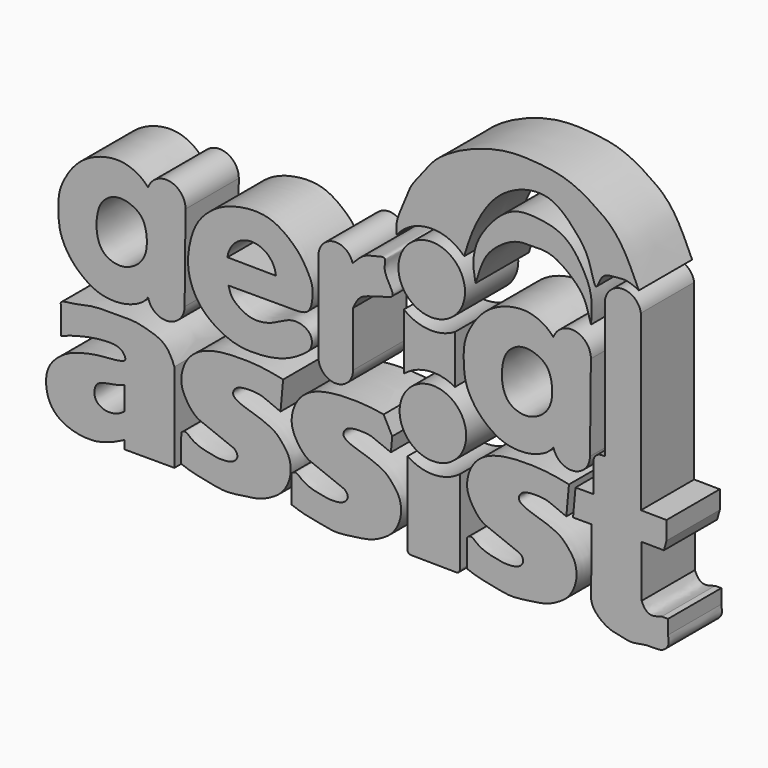
from build123d import *

# Parameters (mm, degrees)
F1_DEPTH = 12.7
F0_R     = 6.35


with BuildPart() as f1:
    # F0 (on Front) → F1 (new body)
    with BuildSketch(Plane.XZ):
        with BuildLine():
            ThreePointArc((-36.92736394, 8.3423931277), (-39.9481089356, 12.0115259021), (-44.080620392, 9.6642328426))
            add(Edge.make_bspline(
                [(-44.080620392, 9.6642328426), (-44.4570360941, 10.0444431838), (-45.2372403042, 10.8791309194), (-47.2623622422, 11.9834788219), (-49.9189243023, 12.5598556121), (-53.5611994753, 11.9278370596), (-56.9095936053, 10.1104382312), (-59.1505090436, 7.5453537904), (-60.7867923719, 4.4758820464), (-61.2491465623, 2.0381780509), (-61.1605141724, -1.4930133429), (-60.7303503841, -3.9388656179), (-59.0554222901, -7.1622771349), (-56.1881703209, -9.801242571), (-53.1742961077, -11.4339225266), (-49.2589535474, -11.7013068247), (-46.1003647072, -10.7021091695), (-44.6693750984, -9.6838841775), (-44.0614384885, -8.7981158956)],
                knots=[0, 0, 0, 0, 0.0419022688, 0.0907340553, 0.1442626227, 0.206618562, 0.2700129241, 0.330387387, 0.3902962657, 0.4421527831, 0.502592299, 0.5544488212, 0.615696099, 0.6801171088, 0.7402415995, 0.8041365663, 0.862700259, 0.9168851876, 0.9168851876, 0.9168851876, 0.9168851876], degree=3))
            ThreePointArc((-44.0614384885, -8.7981158956), (-40.2706891827, -11.5704071604), (-37.1002503927, -8.1057719654))
            Line((-37.1002503927, -8.1057719654), (-36.92736394, 8.3423931277))
        make_face()
        with BuildLine():
            add(Edge.make_bspline(
                [(-49.7851110995, 6.0772686265), (-50.227566633, 6.0325957346), (-51.2350357937, 5.8305511382), (-53.2419706289, 4.2707398528), (-53.9366496633, 1.4362169986), (-53.9402217823, -1.4001682026), (-53.0121466029, -3.9029812023), (-51.0479102627, -5.1313486484), (-48.5822756573, -5.4075825697), (-46.1393201611, -4.1744103479), (-44.7335343199, -2.4385643847), (-44.1137597823, -0.0214934704), (-44.565270215, 3.4343075668), (-45.931946219, 5.1555131326), (-48.2975774259, 6.1243344777), (-49.3363075278, 6.1225824535), (-49.7851110995, 6.0772686265)],
                knots=[0, 0, 0, 0, 0.0554375298, 0.1273232555, 0.2061504288, 0.2851026097, 0.3592180228, 0.4278992816, 0.4999645681, 0.5755823371, 0.6437938247, 0.7169920497, 0.8026407277, 0.8709749043, 0.9437670919, 1, 1, 1, 1], degree=3))
        make_face(mode=Mode.SUBTRACT)
    extrude(amount=F1_DEPTH)


with BuildPart() as f1b:
    # F0 (on Front) → F1, piece 2 (new body)
    with BuildSketch(Plane.XZ):
        with BuildLine():
            add(Edge.make_bspline(
                [(-16.0856470466, -1.8352442421), (-14.9334774509, -1.8352442421), (-13.6238848733, -1.5955220307), (-12.7837951124, -0.0030607536), (-12.5150879754, 3.2164083415), (-13.5671974966, 5.3428380717), (-14.9043483022, 7.6776598715), (-17.3179016133, 10.0827007843), (-20.721339102, 12.2338393507), (-24.8631059067, 12.4638392516), (-29.0875136154, 11.5219728836), (-32.0571469246, 9.8122128351), (-34.8393827555, 7.0479076336), (-36.1794094375, 3.1735178832), (-36.6067051291, -0.5221311261), (-36.0845589728, -3.596280434), (-34.5669468153, -6.6429886934), (-32.4911426205, -8.6742931633), (-30.0653223991, -10.2512223121), (-26.7291475251, -11.5763954031), (-22.0059629138, -11.595692939), (-17.6927903552, -10.7361001605), (-14.4477645936, -8.7434419536), (-12.7073546521, -7.2781732715), (-12.798292861, -4.4716572261), (-16.2272609533, -3.1973587615), (-18.9669034458, -4.7837206071), (-21.5795677368, -5.9331061127), (-24.4889591894, -6.08713621), (-26.7519276615, -4.87475765), (-28.2566134444, -3.6279701452), (-28.5619811878, -2.3634067836), (-28.7444703281, -1.8352442421)],
                knots=[0, 0, 0, 0, 0.0295711735, 0.0533035337, 0.0869571234, 0.1162628235, 0.1470570171, 0.1821568433, 0.2199123548, 0.2583875449, 0.2976882604, 0.3327620958, 0.3698426501, 0.4082437078, 0.4447593066, 0.4781905648, 0.5129171666, 0.5451439139, 0.5771651845, 0.6129095469, 0.6541597545, 0.6944336354, 0.7312276283, 0.7589609948, 0.7873995814, 0.820749912, 0.8541722339, 0.8864169504, 0.9182933328, 0.9484452451, 0.974619544, 1, 1, 1, 1], degree=3))
            Line((-28.7444703281, -1.8352442421), (-16.0856470466, -1.8352442421))
        make_face()
        with BuildLine():
            Line((-19.6931885237, 2.743549669), (-28.9292708039, 2.8406300116))
            ThreePointArc((-28.9292708039, 2.8406300116), (-24.2673542633, 6.9663314824), (-19.6931885237, 2.743549669))
        make_face(mode=Mode.SUBTRACT)
    extrude(amount=F1_DEPTH)


with BuildPart() as f1c:
    # F0 (on Front) → F1, piece 3 (new body)
    with BuildSketch(Plane.XZ):
        with BuildLine():
            ThreePointArc((-5.0769320968, 9.6009214018), (-8.6858583906, 12.0688876549), (-11.5803475518, 8.7921302766))
            Line((-11.5803475518, 8.7921302766), (-11.5803475518, -8.3183348179))
            ThreePointArc((-11.5803475518, -8.3183348179), (-8.2783475518, -11.6203348179), (-4.9763475518, -8.3183348179))
            Line((-4.9763475518, -8.3183348179), (-4.9763475518, 2.1206191741))
            add(Edge.make_bspline(
                [(-5.0769320968, 9.6009214018), (-4.4022189115, 10.3243042189), (-3.1196891813, 11.696892157), (-1.1065486226, 12.0657745557), (1.7037259032, 12.9335090071), (0.3984740556, 10.3152720309), (2.986254662, 7.0792250395), (2.1976517289, 6.1433340244), (0.6476692797, 5.9382942847), (-0.9447594045, 5.2632572737), (-3.8087792889, 4.7347779577), (-4.5863197662, 2.9938825294), (-4.9763475518, 2.1206191741)],
                knots=[0, 0, 0, 0, 0.1137623169, 0.2158611777, 0.3118945004, 0.4056518515, 0.5394090822, 0.6008172583, 0.6835363942, 0.7754926829, 0.8873747179, 1, 1, 1, 1], degree=3))
        make_face()
    extrude(amount=F1_DEPTH)


with BuildPart() as f1d:
    # F0 (on Front) → F1, piece 4 (new body)
    with BuildSketch(Plane.XZ):
        with Locations((10.0175207481, 11.7521565408)):
            Circle(F0_R)
    extrude(amount=F1_DEPTH)


with BuildPart() as f1e:
    # F0 (on Front) → F1, piece 5 (new body)
    with BuildSketch(Plane.XZ):
        with BuildLine():
            ThreePointArc((14.4508831856, 4.4150553593), (9.4842099687, 3.1962617388), (4.7073348611, 5.0223956166))
            Line((4.7073348611, 5.0223956166), (4.7073348611, -5.7541462049))
            ThreePointArc((4.7073348611, -5.7541462049), (9.4340594876, -3.7642383506), (14.4508831856, -4.8287283441))
            Line((14.4508831856, -4.8287283441), (14.4508831856, 4.4150553593))
        make_face()
    extrude(amount=F1_DEPTH)


with BuildPart() as f1f:
    # F0 (on Front) → F1, piece 6 (new body)
    with BuildSketch(Plane.XZ):
        with BuildLine():
            add(Edge.make_bspline(
                [(3.309202439, 17.089405056), (3.2688006741, 17.8313774693), (3.1927594953, 19.3756621783), (4.2460932671, 21.8360462867), (5.2451691814, 24.3220205662), (6.1866754905, 26.6688776027), (8.3266986948, 28.941240512), (10.2467008288, 31.987464346), (13.8199499653, 34.4044424418), (17.6207120347, 36.3128290011), (23.9943161832, 38.2752036133), (30.5327914115, 37.9793600547), (36.0518898321, 37.1726561186), (40.9825805665, 34.4055830772), (45.8934266433, 30.8896365162), (48.2298487709, 25.6695983325), (49.5194904506, 22.7882787585)],
                knots=[0, 0, 0, 0, 0.0510578879, 0.1065039926, 0.1625222756, 0.2162785872, 0.27589031, 0.3406400525, 0.4102821288, 0.4809833693, 0.5684459532, 0.6561050922, 0.736105372, 0.8159935765, 0.8984418083, 1, 1, 1, 1], degree=3))
            ThreePointArc((3.309202439, 17.089405056), (9.6213970849, 20.3154994799), (16.2044641036, 17.6859148915))
            add(Edge.make_bspline(
                [(49.5194904506, 22.7882787585), (48.7393447669, 23.1630066174), (47.2310269026, 23.8847248431), (45.0123518373, 23.4926472634), (42.2967213036, 23.4806485986), (41.2657631677, 19.1003172017), (40.2156992465, 25.1142666191), (37.9740414857, 28.2278567285), (35.4680843414, 30.9217232775), (32.5623758379, 32.9985962673), (28.5005291887, 33.1013943469), (24.2950430709, 31.3624858413), (20.8121740742, 28.2744477967), (17.7606828997, 22.8280207853), (16.7159044637, 19.3710324491), (16.2044641036, 17.6859148915)],
                knots=[0, 0, 0, 0, 0.0627894624, 0.1224786491, 0.1859389419, 0.2472111783, 0.3261672127, 0.4102265663, 0.4856038126, 0.5595770572, 0.6381130723, 0.7221891918, 0.8080308285, 0.9071115446, 1, 1, 1, 1], degree=3))
        make_face()
    extrude(amount=F1_DEPTH)


with BuildPart() as f1g:
    # F0 (on Front) → F1, piece 7 (new body)
    with BuildSketch(Plane.XZ):
        with Locations((10.244606453, -12.2983329052)):
            Circle(F0_R)
    extrude(amount=F1_DEPTH)


with BuildPart() as f1h:
    # F0 (on Front) → F1, piece 8 (new body)
    with BuildSketch(Plane.XZ):
        with BuildLine():
            ThreePointArc((15.3773452235, -19.1643906506), (10.4308865436, -20.8688087366), (5.4150428257, -19.3809222212))
            Line((5.4150428257, -19.3809222212), (5.4150428257, -35.1351684052))
            ThreePointArc((5.4150428257, -35.1351684052), (5.598676534, -35.5818153247), (6.0433687175, -35.7701333305))
            Line((6.0433687175, -35.7701333305), (14.7356711153, -35.8614980097))
            ThreePointArc((14.7356711153, -35.8614980097), (15.1889921429, -35.6778993762), (15.3773452235, -35.2265330844))
            Line((15.3773452235, -35.2265330844), (15.3773452235, -19.1643906506))
        make_face()
    extrude(amount=F1_DEPTH)


with BuildPart() as f1i:
    # F0 (on Front) → F1, piece 9 (new body)
    with BuildSketch(Plane.XZ):
        with BuildLine():
            add(Edge.make_bspline(
                [(18.385110423, 13.8738537207), (18.1694000001, 14.9192450348), (17.7194341835, 17.0999016302), (18.4726613018, 20.965155139), (20.5793321803, 24.1190842052), (22.7707221562, 26.6330853232), (25.8378867241, 28.710971895), (29.5499679347, 28.8108173826), (33.6877813152, 28.185008661), (36.4675365402, 26.4568456313), (38.4606925974, 23.7587410717), (40.7935280023, 19.4741554338), (40.531781864, 15.9225845881), (40.3966195881, 14.0885999426)],
                knots=[0, 0, 0, 0, 0.0841451382, 0.1755243689, 0.2659935197, 0.3513522929, 0.4388919887, 0.5282506782, 0.6233265086, 0.7059131481, 0.7905364915, 0.891835789, 1, 1, 1, 1], degree=3))
            add(Edge.make_bspline(
                [(40.3966195881, 14.0885999426), (40.0374523266, 15.4111670531), (39.3900027267, 17.7952806355), (37.9016973986, 19.8429348355), (35.3923788402, 22.0368989372), (32.432039693, 23.7302182888), (28.953483635, 23.6229127765), (25.5906165363, 23.6486595229), (21.2348043884, 20.5818016279), (19.5640902521, 17.7182045318), (18.7893848646, 15.1920889772), (18.385110423, 13.8738537207)],
                knots=[0, 0, 0, 0, 0.1159429389, 0.2090034851, 0.316081554, 0.4245999008, 0.532700542, 0.641135751, 0.7739223002, 0.8820229763, 1, 1, 1, 1], degree=3))
        make_face()
    extrude(amount=F1_DEPTH)


with BuildPart() as f1j:
    # F0 (on Front) → F1, piece 10 (new body)
    with BuildSketch(Plane.XZ):
        with BuildLine():
            ThreePointArc((40.3695137401, 8.3423931277), (37.3487687445, 12.0115259021), (33.2162572881, 9.6642328426))
            add(Edge.make_bspline(
                [(33.2162572881, 9.6642328426), (32.839841586, 10.0444431838), (32.0596373759, 10.8791309194), (30.034515438, 11.9834788219), (27.3779533779, 12.5598556121), (23.7356782049, 11.9278370596), (20.3872840749, 10.1104382312), (18.1463686366, 7.5453537904), (16.5100853082, 4.4758820464), (16.0477311178, 2.0381780509), (16.1363635077, -1.4930133429), (16.566527296, -3.9388656179), (18.24145539, -7.1622771349), (21.1087073592, -9.801242571), (24.1225815724, -11.4339225266), (28.0379241327, -11.7013068247), (31.1965129729, -10.7021091695), (32.6275025817, -9.6838841775), (33.2354391916, -8.7981158956)],
                knots=[0, 0, 0, 0, 0.0419022688, 0.0907340553, 0.1442626227, 0.206618562, 0.2700129241, 0.330387387, 0.3902962657, 0.4421527831, 0.502592299, 0.5544488212, 0.615696099, 0.6801171088, 0.7402415995, 0.8041365663, 0.862700259, 0.9168851876, 0.9168851876, 0.9168851876, 0.9168851876], degree=3))
            ThreePointArc((33.2354391916, -8.7981158956), (37.0261884974, -11.5704071604), (40.1966272874, -8.1057719654))
            Line((40.1966272874, -8.1057719654), (40.3695137401, 8.3423931277))
        make_face()
        with BuildLine():
            add(Edge.make_bspline(
                [(27.5117665806, 6.0772686265), (27.0693110471, 6.0325957346), (26.0618418864, 5.8305511382), (24.0549070512, 4.2707398528), (23.3602280169, 1.4362169986), (23.3566558978, -1.4001682026), (24.2847310772, -3.9029812023), (26.2489674174, -5.1313486484), (28.7146020228, -5.4075825697), (31.157557519, -4.1744103479), (32.5633433602, -2.4385643847), (33.1831178978, -0.0214934704), (32.7316074651, 3.4343075668), (31.3649314611, 5.1555131326), (28.9993002542, 6.1243344777), (27.9605701523, 6.1225824535), (27.5117665806, 6.0772686265)],
                knots=[0, 0, 0, 0, 0.0554375298, 0.1273232555, 0.2061504288, 0.2851026097, 0.3592180228, 0.4278992816, 0.4999645681, 0.5755823371, 0.6437938247, 0.7169920497, 0.8026407277, 0.8709749043, 0.9437670919, 1, 1, 1, 1], degree=3))
        make_face(mode=Mode.SUBTRACT)
    extrude(amount=F1_DEPTH)


with BuildPart() as f1k:
    # F0 (on Front) → F1, piece 11 (new body)
    with BuildSketch(Plane.XZ):
        with BuildLine():
            Line((49.9051772058, -13.983499315), (49.9051772058, 19.1187057644))
            ThreePointArc((49.9051772058, 19.1187057644), (46.4864086445, 22.0292803642), (43.0676400832, 19.1187057644))
            Line((43.0676400832, 19.1187057644), (43.0676400832, -7.145129241))
            Line((43.0676400832, -7.145129241), (42.312040925, -7.1845795028))
            ThreePointArc((42.312040925, -7.1845795028), (41.2748492342, -7.6625459293), (40.851611644, -8.7232477963))
            Line((40.851611644, -8.7232477963), (40.851611644, -14.225943014))
            Line((40.851611644, -14.225943014), (37.4352447689, -14.225943014))
            Line((37.4352447689, -14.225943014), (36.9670242071, -19.408615306))
            Line((36.9670242071, -19.408615306), (40.5086688697, -19.408615306))
            add(Edge.make_bspline(
                [(55.0809390843, -33.2563892007), (55.1859596623, -33.8791082548), (55.3956576982, -35.1225118336), (53.7273651961, -36.5261703767), (51.2125256523, -36.0465376367), (48.2273368216, -36.9530069271), (46.1166876235, -36.3131295149), (43.6456056511, -36.0608554745), (40.2038124597, -33.3411059008), (40.4838453547, -29.5538493637), (40.4990324847, -23.3469528784), (40.5086688697, -19.408615306)],
                knots=[0, 0, 0, 0, 0.0829934788, 0.1657158037, 0.2641946035, 0.3729106543, 0.4632713288, 0.5612339825, 0.683319768, 0.7990632421, 1, 1, 1, 1], degree=3))
            Line((55.0809390843, -33.2563892007), (55.0809390843, -30.5366981775))
            Line((55.0809390843, -30.5366981775), (53.895983845, -30.5366981775))
            add(Edge.make_bspline(
                [(50.0445750447, -29.1502177715), (50.2396437846, -29.5655917254), (50.6228131202, -30.3809073836), (51.8193452683, -31.1904250622), (53.1449887985, -30.7691088665), (53.895983845, -30.5366981775)],
                knots=[0, 0, 0, 0, 0.310294144, 0.6094610156, 1, 1, 1, 1], degree=3))
            Line((50.0445750447, -29.1502177715), (50.0445750447, -19.2422290045))
            Line((50.0445750447, -19.2422290045), (54.2894415557, -19.286846742))
            Line((54.2894415557, -19.286846742), (54.7918081284, -17.5057388842))
            Line((54.7918081284, -17.5057388842), (54.7918081284, -14.0348626301))
            Line((54.7918081284, -14.0348626301), (49.9051772058, -13.983499315))
        make_face()
    extrude(amount=F1_DEPTH)


with BuildPart() as f1l:
    # F0 (on Front) → F1, piece 12 (new body)
    with BuildSketch(Plane.XZ):
        with BuildLine():
            Line((-60.6397874653, -15.7145876437), (-60.6397874653, -20.6949226558))
            add(Edge.make_bspline(
                [(-48.5466755927, -34.2097580433), (-49.2602166161, -34.5776330396), (-50.5686022565, -35.2521876157), (-52.1379150145, -35.7518659265), (-54.0023395969, -36.3350043458), (-57.8300307411, -36.2920738749), (-61.8087482857, -34.5364019116), (-63.5720409803, -31.3014956163), (-63.6248938054, -27.3475674171), (-61.8700748605, -24.8412263108), (-59.2543792831, -22.9538176427), (-56.0141262164, -22.0239116281), (-52.7831921561, -21.4411807093), (-48.1726224027, -21.3058021928), (-48.4930753867, -19.9380502073), (-49.6065088183, -18.6949956524), (-52.7688891444, -18.7509875003), (-55.3413106257, -19.1326866686), (-58.1824544691, -19.7746150878), (-59.8323881316, -20.3925396583), (-60.6397874653, -20.6949226558)],
                knots=[0, 0, 0, 0, 0.0505268284, 0.0926485998, 0.1383939778, 0.2032526191, 0.2717374042, 0.3341319958, 0.3985951317, 0.4556578464, 0.5148575215, 0.5749181875, 0.6391508421, 0.7054902261, 0.7354281838, 0.7765037097, 0.8343796577, 0.889535524, 0.945943921, 1, 1, 1, 1], degree=3))
            Line((-48.5466755927, -34.2097580433), (-48.5466755927, -35.8019471169))
            Line((-48.5466755927, -35.8019471169), (-39.0525236726, -35.8019471169))
            Line((-39.0525236726, -35.8019471169), (-39.0525236726, -18.8192110509))
            add(Edge.make_bspline(
                [(-60.6397874653, -15.7145876437), (-60.7162867453, -15.4490002809), (-60.9332584081, -14.6957534739), (-57.9791869695, -14.5830742253), (-54.6105463753, -13.5511542668), (-50.1852146364, -13.6943149472), (-46.6860024273, -13.5496673271), (-43.7740937615, -14.3170199435), (-40.575562672, -15.3831338025), (-39.522928418, -17.6378333287), (-39.0525236726, -18.8192110509)],
                knots=[0, 0, 0, 0, 0.0615077401, 0.1741284685, 0.3166183511, 0.4695796799, 0.6058707786, 0.7317845061, 0.8612758396, 1, 1, 1, 1], degree=3))
        make_face()
        with BuildLine():
            add(Edge.make_bspline(
                [(-48.5654883087, -29.4266398996), (-48.8921998982, -29.6648382473), (-49.5677110115, -30.1574892007), (-50.8429980361, -30.5150059452), (-52.4755196823, -30.5497292042), (-54.0920253252, -29.5490915067), (-54.4126556663, -28.0920872377), (-54.0487624507, -26.4261060402), (-52.4162825119, -25.82628002), (-50.4513897468, -25.6168092498), (-49.1754585737, -25.1885154705), (-48.5654883087, -24.959474802)],
                knots=[0, 0, 0, 0, 0.0973553278, 0.1978103889, 0.3097993108, 0.4263508094, 0.5310206131, 0.6397299323, 0.750485296, 0.8755348612, 1, 1, 1, 1], degree=3))
            Line((-48.5654883087, -24.959474802), (-48.5654883087, -29.4266398996))
        make_face(mode=Mode.SUBTRACT)
    extrude(amount=F1_DEPTH)


with BuildPart() as f1m:
    # F0 (on Front) → F1, piece 13 (new body)
    with BuildSketch(Plane.XZ):
        with BuildLine():
            Line((-18.8167635351, -19.775563851), (-18.3167811483, -14.2306648195))
            add(Edge.make_bspline(
                [(-37.7361252904, -29.436621815), (-37.6546863584, -29.354021176), (-37.4688729902, -29.1655572242), (-36.7463100715, -28.9481724724), (-35.9815102108, -29.8808677595), (-34.0987012131, -30.8082016595), (-32.4755720334, -31.1281157778), (-30.6648811041, -31.545795465), (-28.4742966805, -31.4361332011), (-27.4900404365, -30.9121238877), (-26.8492104559, -30.0113956893), (-27.346522044, -28.9705834981), (-28.1595531236, -28.6068210103), (-29.4341124567, -28.113789267), (-31.2130009699, -27.490027799), (-32.5271014189, -26.8614134306), (-34.7652157365, -26.1913624222), (-36.2185389737, -24.590832849), (-37.4414833356, -22.6108459986), (-37.9583890188, -20.3348638588), (-37.0903230826, -17.1809524278), (-34.8135346245, -14.7271013349), (-30.5011593371, -13.2274529606), (-23.1231376218, -13.2281168864), (-19.8069440267, -13.9198348338), (-18.3167811483, -14.2306648195)],
                knots=[0, 0, 0, 0, 0.0188832364, 0.0430845256, 0.0756235558, 0.1204416634, 0.1605223084, 0.2030259402, 0.248425197, 0.2807287222, 0.311078921, 0.3418318961, 0.3704993242, 0.4068108875, 0.449168246, 0.4871117198, 0.5334579911, 0.5788252294, 0.6255324243, 0.6721709297, 0.7268545725, 0.7818593426, 0.8473024342, 0.9313839082, 1, 1, 1, 1], degree=3))
            Line((-37.7361252904, -29.436621815), (-37.7884320915, -34.6936881542))
            add(Edge.make_bspline(
                [(-18.8167635351, -19.775563851), (-19.3256936347, -19.5809776687), (-20.3673032207, -19.1827139878), (-22.0395537597, -18.3584180296), (-23.5718048802, -18.0450046805), (-25.6660364525, -18.0337080222), (-27.4046844655, -18.3810390037), (-28.1743693533, -19.9021166428), (-26.7048137397, -20.9628116417), (-23.8579186187, -21.7701506459), (-22.0864341688, -22.383869713), (-19.7125998912, -23.4047850765), (-18.3030024674, -25.1223956375), (-16.9971683388, -26.8333104755), (-16.6339781326, -29.9829997683), (-18.1410199756, -33.0785854837), (-20.0789394137, -34.4959647574), (-22.5779734481, -35.8307416186), (-26.2415026013, -36.2634445818), (-29.579813944, -36.7794279217), (-32.9999350767, -35.9069354864), (-35.5746581469, -35.5165002227), (-37.0653301245, -34.9624494873), (-37.7884320915, -34.6936881542)],
                knots=[0, 0, 0, 0, 0.0401766466, 0.0822340342, 0.1211902605, 0.1662522016, 0.2070644155, 0.2419920845, 0.2801519289, 0.3339620249, 0.3776373621, 0.4265590676, 0.4725940123, 0.5175060309, 0.5716352663, 0.6282291969, 0.6757843739, 0.7274385649, 0.7869976025, 0.8445253216, 0.9023937019, 0.9526559914, 1, 1, 1, 1], degree=3))
        make_face()
    extrude(amount=F1_DEPTH)


with BuildPart() as f1n:
    # F0 (on Front) → F1, piece 14 (new body)
    with BuildSketch(Plane.XZ):
        with BuildLine():
            Line((2.2326643716, -19.7722751712), (2.482655565, -16.9998256554))
            Line((2.482655565, -16.9998256554), (0.8511047564, -13.8538411699))
            add(Edge.make_bspline(
                [(-16.6873042145, -29.436621815), (-16.6058652826, -29.354021176), (-16.4200519144, -29.1655572242), (-15.6974889956, -28.9481724724), (-14.9326891349, -29.8808677595), (-13.0498801372, -30.8082016595), (-11.4267509575, -31.1281157778), (-9.6160600283, -31.545795465), (-7.4254756046, -31.4361332011), (-6.4412193607, -30.9121238877), (-5.80038938, -30.0113956893), (-6.2977009681, -28.9705834981), (-7.1107320477, -28.6068210103), (-8.3852913808, -28.113789267), (-10.164179894, -27.490027799), (-11.478280343, -26.8614134306), (-13.7163946606, -26.1913624222), (-15.1697178978, -24.590832849), (-16.3926622598, -22.6108459986), (-16.9095679429, -20.3348638588), (-16.0415020067, -17.1809524278), (-13.7647135486, -14.7271013349), (-9.4523382613, -13.2274529606), (-3.0369352074, -13.2280302633), (-0.0585371868, -13.6859930205), (0.8511047564, -13.8538411699)],
                knots=[0, 0, 0, 0, 0.0188832364, 0.0430845256, 0.0756235558, 0.1204416634, 0.1605223084, 0.2030259402, 0.248425197, 0.2807287222, 0.311078921, 0.3418318961, 0.3704993242, 0.4068108875, 0.449168246, 0.4871117198, 0.5334579911, 0.5788252294, 0.6255324243, 0.6721709297, 0.7268545725, 0.7818593426, 0.8473024342, 0.9313839082, 0.9715389469, 0.9715389469, 0.9715389469, 0.9715389469], degree=3))
            Line((-16.6873042145, -29.436621815), (-16.7396110156, -34.6936881542))
            add(Edge.make_bspline(
                [(2.2326643716, -19.7722751712), (1.7238218371, -19.5777224688), (0.6809696073, -19.18421666), (-0.9906176245, -18.3580114167), (-2.5230388301, -18.0451935655), (-4.6171154518, -18.0333804512), (-6.3555043371, -18.3818453349), (-7.1243330327, -19.89794532), (-5.6569219035, -20.9643563617), (-2.8090315857, -21.7698349667), (-1.0375010704, -22.3836920662), (1.3352852541, -23.4058166469), (2.7477900908, -25.1180137543), (4.0507928779, -26.8339140554), (4.4151718623, -29.9830151253), (2.9075831741, -33.0745216752), (0.9704248686, -34.4967805054), (-1.5291944498, -35.8304046749), (-5.1926698146, -36.2635367212), (-8.5309967553, -36.7794030277), (-11.9511103793, -35.906942257), (-14.5258463142, -35.5164954225), (-16.0164906004, -34.9624563441), (-16.7396110156, -34.6936881542)],
                knots=[0, 0, 0, 0, 0.0401697339, 0.0822281945, 0.1211854147, 0.1662485055, 0.2070617605, 0.2419454022, 0.2801287622, 0.3339402311, 0.3776166826, 0.4265396362, 0.4725553779, 0.5174951728, 0.5716257892, 0.628193417, 0.6757761023, 0.7274316112, 0.7869921683, 0.8445213551, 0.9023912117, 0.9526547835, 1, 1, 1, 1], degree=3))
        make_face()
    extrude(amount=F1_DEPTH)


with BuildPart() as f1o:
    # F0 (on Front) → F1, piece 15 (new body)
    with BuildSketch(Plane.XZ):
        with BuildLine():
            Line((35.6875732541, -19.6595087364), (36.1875556409, -14.1146097049))
            add(Edge.make_bspline(
                [(16.7682114989, -29.3205667004), (16.8496504308, -29.2379660614), (17.035463799, -29.0495021096), (17.7580267178, -28.8321173577), (18.5228265785, -29.7648126449), (20.4056355762, -30.6921465449), (22.0287647559, -31.0120606632), (23.8394556851, -31.4297403504), (26.0300401088, -31.3200780865), (27.0142963527, -30.7960687731), (27.6551263334, -29.8953405747), (27.1578147453, -28.8545283835), (26.3447836657, -28.4907658957), (25.0702243326, -27.9977341523), (23.2913358194, -27.3739726844), (21.9772353704, -26.745358316), (19.7391210528, -26.0753073076), (18.2857978156, -24.4747777344), (17.0628534536, -22.494790884), (16.5459477704, -20.2188087442), (17.4140137067, -17.0648973132), (19.6908021647, -14.6110462202), (24.0031774521, -13.111397846), (31.3811991675, -13.1120617718), (34.6973927626, -13.8037797192), (36.1875556409, -14.1146097049)],
                knots=[0, 0, 0, 0, 0.0188832364, 0.0430845256, 0.0756235558, 0.1204416634, 0.1605223084, 0.2030259402, 0.248425197, 0.2807287222, 0.311078921, 0.3418318961, 0.3704993242, 0.4068108875, 0.449168246, 0.4871117198, 0.5334579911, 0.5788252294, 0.6255324243, 0.6721709297, 0.7268545725, 0.7818593426, 0.8473024342, 0.9313839082, 1, 1, 1, 1], degree=3))
            Line((16.7682114989, -29.3205667004), (16.7159046978, -34.5776330396))
            add(Edge.make_bspline(
                [(35.6875732541, -19.6595087364), (35.1786431545, -19.4649225541), (34.1370335685, -19.0666588731), (32.4647830296, -18.2423629149), (30.932531909, -17.9289495659), (28.8383003367, -17.9176529076), (27.0996523237, -18.2649838891), (26.329967436, -19.7860615282), (27.7995230496, -20.8467565271), (30.6464181705, -21.6540955312), (32.4179026204, -22.2678145983), (34.7917368981, -23.2887299619), (36.2013343219, -25.0063405229), (37.5071684505, -26.7172553609), (37.8703586566, -29.8669446537), (36.3633168136, -32.9625303691), (34.4253973755, -34.3799096428), (31.9263633411, -35.714686504), (28.262834188, -36.1473894672), (24.9245228452, -36.6633728071), (21.5044017125, -35.7908803718), (18.9296786424, -35.4004451081), (17.4390066647, -34.8463943727), (16.7159046978, -34.5776330396)],
                knots=[0, 0, 0, 0, 0.0401766466, 0.0822340342, 0.1211902605, 0.1662522016, 0.2070644155, 0.2419920845, 0.2801519289, 0.3339620249, 0.3776373621, 0.4265590676, 0.4725940123, 0.5175060309, 0.5716352663, 0.6282291969, 0.6757843739, 0.7274385649, 0.7869976025, 0.8445253216, 0.9023937019, 0.9526559914, 1, 1, 1, 1], degree=3))
        make_face()
    extrude(amount=F1_DEPTH)


solid = Compound([f1.part, f1b.part, f1c.part, f1d.part, f1e.part, f1f.part, f1g.part, f1h.part, f1i.part, f1j.part, f1k.part, f1l.part, f1m.part, f1n.part, f1o.part])
